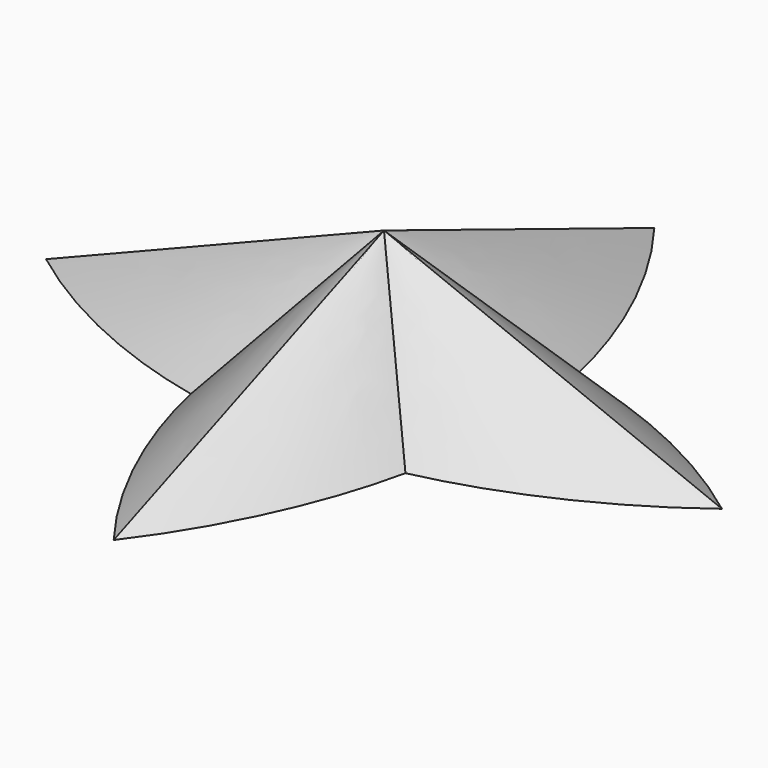
from build123d import *


with BuildPart() as f4:
    # F1 (on Top) → F4 section 0
    with BuildSketch(Plane.XY, mode=Mode.PRIVATE) as f4_s0:
        with BuildLine():
            add(Edge.make_bspline(
                [(0, 20), (3.002288, 16.065376), (5.295623, 11.204749), (6.350137, 6.350137)],
                knots=[0, 0, 0, 0, 15.054667, 15.054667, 15.054667, 15.054667], degree=3))
            add(Edge.make_bspline(
                [(0, 20), (-3.002288, 16.065376), (-5.295623, 11.204749), (-6.350137, 6.350137)],
                knots=[0, 0, 0, 0, 15.054667, 15.054667, 15.054667, 15.054667], degree=3))
            add(Edge.make_bspline(
                [(-20, 0), (-16.065376, 3.002288), (-11.204749, 5.295623), (-6.350137, 6.350137)],
                knots=[0, 0, 0, 0, 15.054667, 15.054667, 15.054667, 15.054667], degree=3))
            add(Edge.make_bspline(
                [(-20, 0), (-16.065376, -3.002288), (-11.204749, -5.295623), (-6.350137, -6.350137)],
                knots=[0, 0, 0, 0, 15.054667, 15.054667, 15.054667, 15.054667], degree=3))
            add(Edge.make_bspline(
                [(0, -20), (-3.002288, -16.065376), (-5.295623, -11.204749), (-6.350137, -6.350137)],
                knots=[0, 0, 0, 0, 15.054667, 15.054667, 15.054667, 15.054667], degree=3))
            add(Edge.make_bspline(
                [(0, -20), (3.002288, -16.065376), (5.295623, -11.204749), (6.350137, -6.350137)],
                knots=[0, 0, 0, 0, 15.054667, 15.054667, 15.054667, 15.054667], degree=3))
            add(Edge.make_bspline(
                [(20, 0), (16.065376, -3.002288), (11.204749, -5.295623), (6.350137, -6.350137)],
                knots=[0, 0, 0, 0, 15.054667, 15.054667, 15.054667, 15.054667], degree=3))
            add(Edge.make_bspline(
                [(20, 0), (16.065376, 3.002288), (11.204749, 5.295623), (6.350137, 6.350137)],
                knots=[0, 0, 0, 0, 15.054667, 15.054667, 15.054667, 15.054667], degree=3))
        make_face()
    loft([f4_s0.sketch, Vertex(0, 0, 8)])


solid = f4.part
